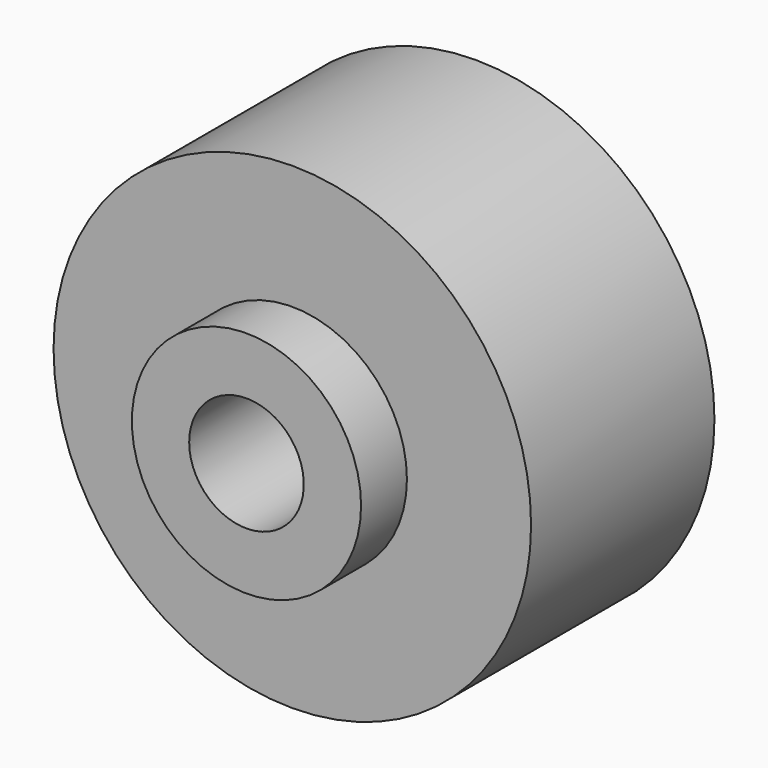
from build123d import *

# Parameters (mm, degrees)
F0_R     = 25
F1_DEPTH = 24
F2_R     = 12
F3_DEPTH = 6
F4_R     = 6
F5_DEPTH = 30.001


with BuildPart() as f1:
    # F0 (on Front) → F1 (new body)
    with BuildSketch(Plane.XZ):
        Circle(F0_R)
    extrude(amount=F1_DEPTH)

    # F2 (on face) → F3 (join)
    with BuildSketch(Plane.XZ.offset(24)):
        Circle(F2_R)
    extrude(amount=F3_DEPTH)

    # F4 (on face) → F5 (cut, through all)
    with BuildSketch(Plane(origin=(0, 0, 0), x_dir=(-1, 0, 0), z_dir=(0, 1, 0))):
        Circle(F4_R)
    extrude(amount=-F5_DEPTH, mode=Mode.SUBTRACT)


solid = f1.part
